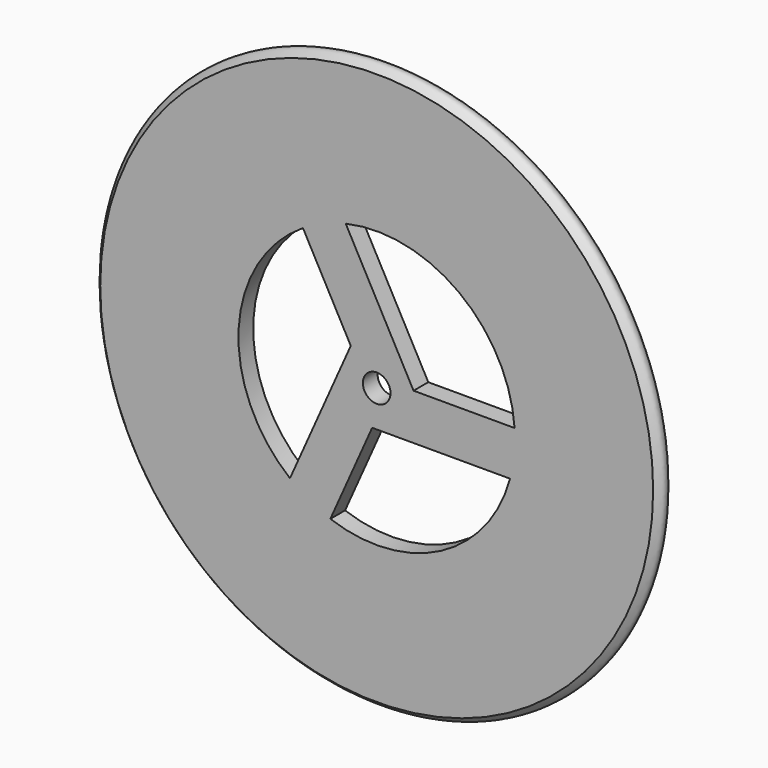
from build123d import *

# Parameters (mm, degrees)
F2_R     = 15
F2_R_2   = 3.5
F2_R_3   = 1.5
F3_DEPTH = 1000
F5_DEPTH = 2
F6_DEPTH = 10050


with BuildPart() as f1:
    # F0 (on Top) → F1 (revolve)
    with BuildSketch(Plane.XY):
        with BuildLine():
            Line((-30, 0), (0, 0))
            Line((0, 0), (0, 2))
            Line((0, 2), (-30, 2))
            add(Edge.make_bspline(
                [(-30, 2), (-30.4910149425, 1.5771952458), (-30.8094289155, 0.8702388721), (-30.4755121469, 0.4455515009), (-30, 0)],
                knots=[0, 0, 0, 0, 0.5130266248, 1, 1, 1, 1], degree=3))
        make_face()
    revolve(axis=Axis((0, 1, 0), (0, -1, 0)))

    # F2 (on Front) → F3 (cut)
    with BuildSketch(Plane.XZ):
        Circle(F2_R)
        Circle(F2_R_2, mode=Mode.SUBTRACT)
        Circle(F2_R_3)
    extrude(amount=-F3_DEPTH, mode=Mode.SUBTRACT)

    # F4 (on Front) → F5 (join)
    with BuildSketch(Plane.XZ):
        Polygon((-2.8139011922, 3.1256922416), (-9.7019712724, -12.3303449528), (-5.1349687969, -14.365655344), (-0.4918737939, -3.9470840711), (16.5167228414, -3.9470840711), (16.5167228414, 1.0529159289), (3.999228884, 1.0529159289), (-4.3775779681, 16.4923113486), (-8.7723915503, 14.1078588795), align=None)
    extrude(amount=-F5_DEPTH)

    # F2 (on Front) → F6 (cut)
    with BuildSketch(Plane.XZ):
        Circle(F2_R_3)
    extrude(amount=-F6_DEPTH, mode=Mode.SUBTRACT)


solid = f1.part
